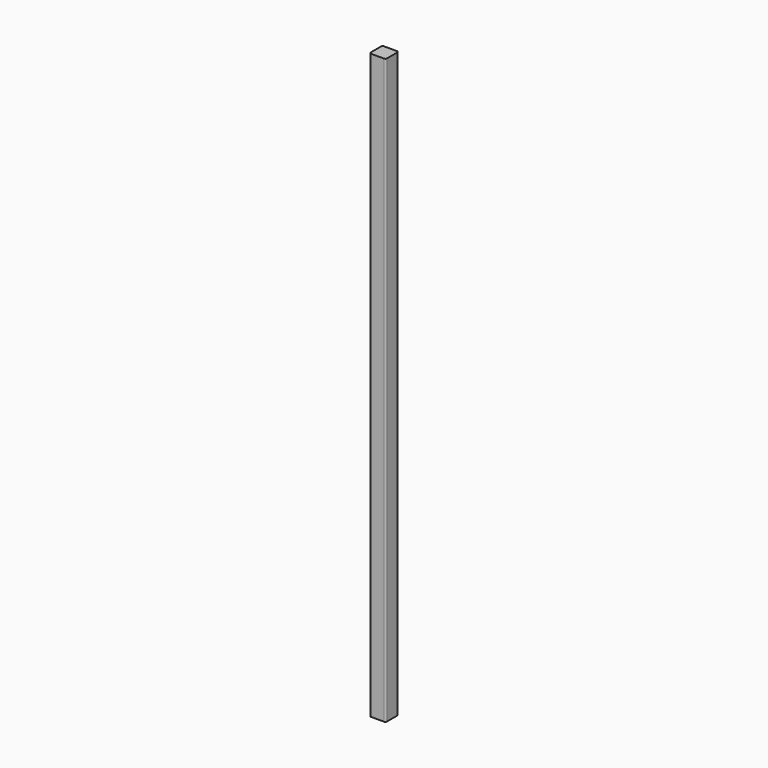
from build123d import *

# Parameters (mm, degrees)
F0_W     = 50
F0_H     = 1800
F1_DEPTH = 25
F2_R     = 5


with BuildPart() as f1:
    # F0 (on Front) → F1 (new body, symmetric)
    with BuildSketch(Plane.XZ):
        with Locations((0.771095, 415.691427)):
            Rectangle(F0_W, F0_H)
    extrude(amount=F1_DEPTH, both=True)

    # F2
    f2_edges = [f1.edges().sort_by_distance(p)[0] for p in [
        (25.771095, -25, 415.691427),
        (-24.228905, -25, 415.691427),
        (-24.228905, 25, 415.691427),
        (25.771095, 25, 415.691427),
    ]]
    fillet(f2_edges, radius=F2_R)


solid = f1.part
